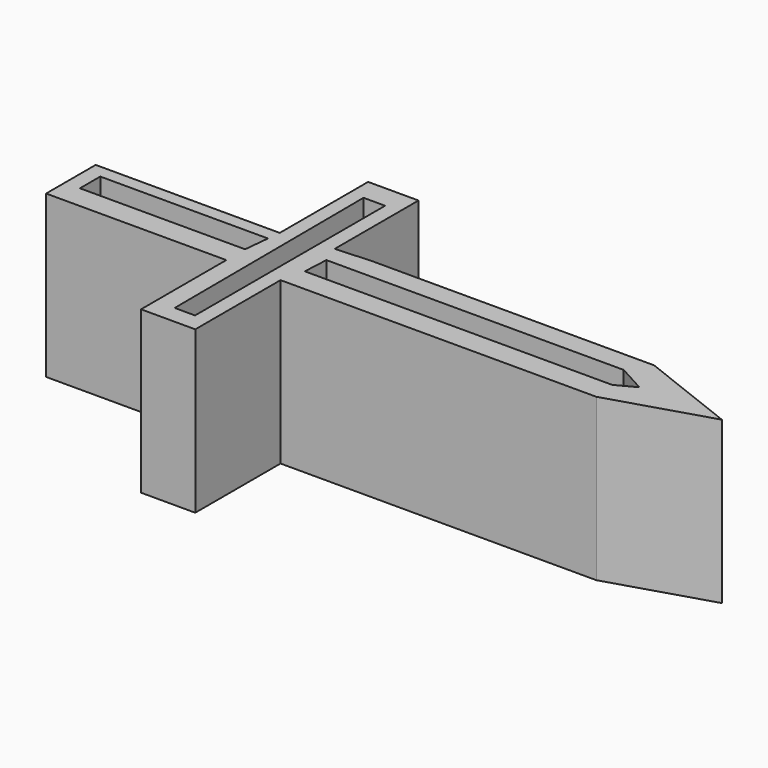
from build123d import *

# Parameters (mm, degrees)
F1_DEPTH = 25.4


with BuildPart() as f1:
    # F0 (on Top) → F1 (new body)
    with BuildSketch(Plane.XY):
        Polygon((38.404804, -23.317199), (-5.7912, -23.317199), (-11.582401, -23.622001), (-11.582401, -7.1628), (-19.507201, -7.1628), (-19.507201, -24.536401), (-48.463199, -24.536401), (-48.463199, -34.290001), (-20.1168, -34.290001), (-20.1168, -51.054001), (-11.582401, -51.054001), (-11.582401, -34.290001), (38.1, -34.290001), (53.949598, -29.413199), align=None)
        Polygon((-17.110143, -48.187301), (-17.30998, -10.817486), (-13.912725, -10.817486), (-13.912725, -48.187301), align=None, mode=Mode.SUBTRACT)
        Polygon((-46.086736, -26.604734), (-19.708045, -26.604734), (-20.107722, -30.601505), (-46.086736, -30.601505), align=None, mode=Mode.SUBTRACT)
        Polygon((-10.715308, -30.601505), (-10.515469, -26.604734), (36.246758, -26.604734), (40.643208, -29.002797), (37.645631, -30.601505), align=None, mode=Mode.SUBTRACT)
    extrude(amount=F1_DEPTH)


solid = f1.part
